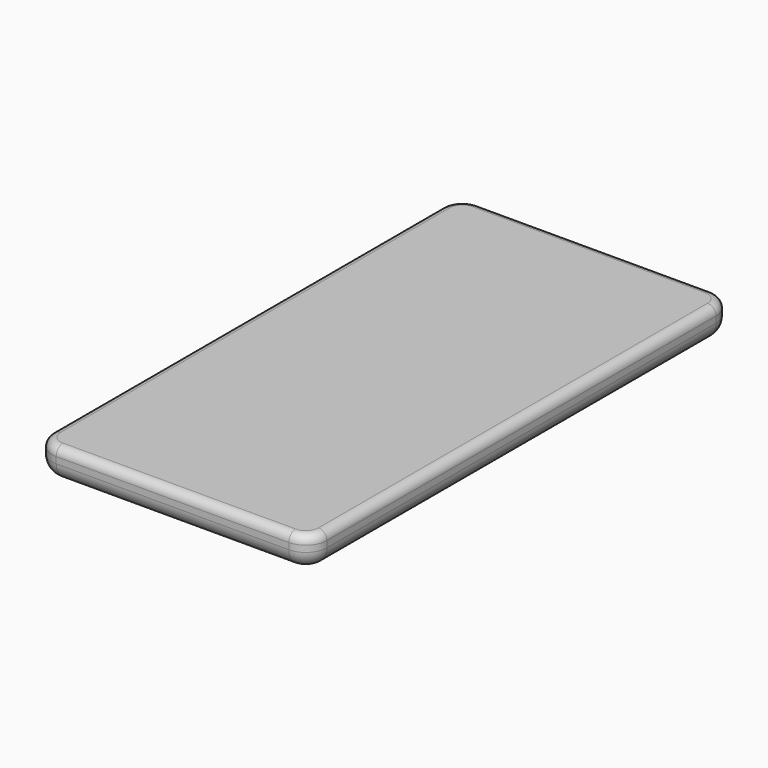
from build123d import *

# Parameters (mm, degrees)
F1_DEPTH = 9.525
F2_R     = 2.54
F3_R     = 5.08


with BuildPart() as f1:
    # F0 (on Top) → F1 (new body)
    with BuildSketch(Plane.XY):
        with BuildLine():
            Line((34.109328, 89.688999), (-35.740672, 89.688999))
            ThreePointArc((-35.740672, 89.688999), (-40.2308, 87.829127), (-42.090672, 83.338999))
            Line((-42.090672, 83.338999), (-42.090672, -62.711001))
            ThreePointArc((-42.090672, -62.711001), (-40.2308, -67.201129), (-35.740672, -69.061001))
            Line((-35.740672, -69.061001), (34.109328, -69.061001))
            ThreePointArc((34.109328, -69.061001), (38.599456, -67.201129), (40.459328, -62.711001))
            Line((40.459328, -62.711001), (40.459328, 83.338999))
            ThreePointArc((40.459328, 83.338999), (38.599456, 87.829127), (34.109328, 89.688999))
        make_face()
    extrude(amount=F1_DEPTH)

    # F2
    f2_edges = [f1.edges().sort_by_distance(p)[0] for p in [
        (-42.090672, 10.313999, 9.525),
        (-40.2308, -67.201129, 9.525),
        (-0.815672, -69.061001, 9.525),
        (38.599456, -67.201129, 9.525),
        (40.459328, 10.313999, 9.525),
        (38.599456, 87.829127, 9.525),
        (-0.815672, 89.688999, 9.525),
        (-40.2308, 87.829127, 9.525),
    ]]
    fillet(f2_edges, radius=F2_R)

    # F3
    f3_edges = [f1.edges().sort_by_distance(p)[0] for p in [
        (-42.090672, 10.313999, 0),
        (-40.2308, -67.201129, 0),
        (-0.815672, -69.061001, 0),
        (38.599456, -67.201129, 0),
        (40.459328, 10.313999, 0),
        (38.599456, 87.829127, 0),
        (-0.815672, 89.688999, 0),
        (-40.2308, 87.829127, 0),
    ]]
    fillet(f3_edges, radius=F3_R)


solid = f1.part
